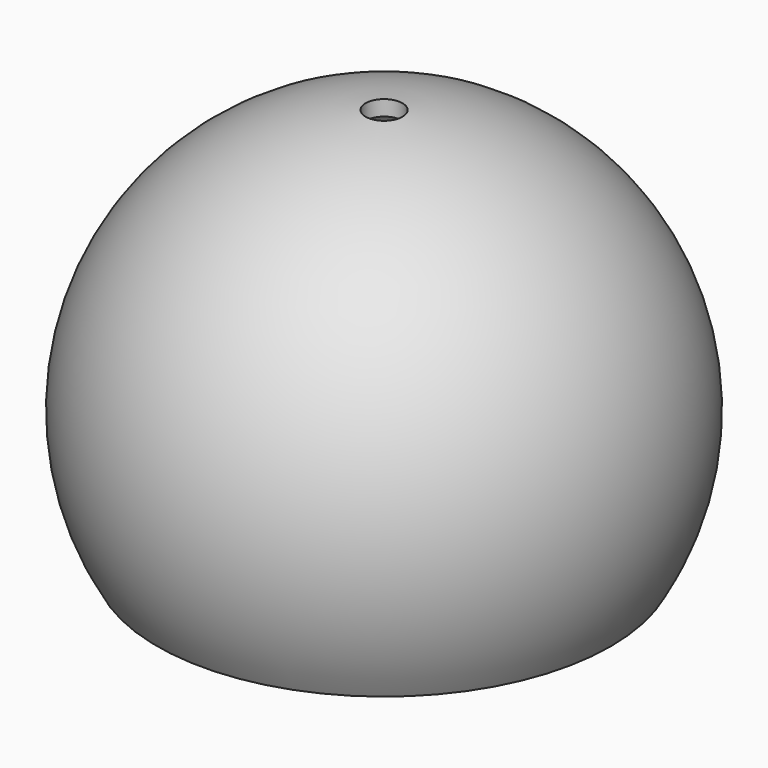
from build123d import *

# Parameters (mm, degrees)
F2_T      = -2.5
F3_R      = 34
F4_DEPTH  = 4.2
F6_R      = 3
F7_DEPTH  = 14
F8_R      = 36
F8_R_2    = 34
F9_DEPTH  = 4
F10_R     = 36
F10_R_2   = 31
F11_DEPTH = 3


with BuildPart() as f1:
    # F0 (on Front) → F1 (revolve)
    with BuildSketch(Plane.XZ):
        with BuildLine():
            Line((0, 0), (0, 65))
            ThreePointArc((0, 65), (-37.383151285, 43.2485293609), (-36.9459064038, 0))
            Line((-36.9459064038, 0), (0, 0))
        make_face()
    revolve(axis=Axis((0, 0, 20.3252808475), (0, 0, 1)))

    # F2 (hollow: no face is removed)
    offset(amount=F2_T, mode=Mode.SUBTRACT)

    # F3 (on face) → F4 (cut)
    with BuildSketch(Plane(origin=(0, 0, 0), x_dir=(1, 0, 0), z_dir=(0, 0, -1))):
        Circle(F3_R)
    extrude(amount=-F4_DEPTH, mode=Mode.SUBTRACT)

    # F6 (on offset) → F7 (cut)
    with BuildSketch(Plane.XY.offset(52)):
        Circle(F6_R)
    extrude(amount=F7_DEPTH, mode=Mode.SUBTRACT)

    # F8 (on face) → F9 (join)
    with BuildSketch(Plane.XY.offset(2.5)):
        Circle(F8_R)
        Circle(F8_R_2, mode=Mode.SUBTRACT)
    extrude(amount=F9_DEPTH)

    # F10 (on face) → F11 (join)
    with BuildSketch(Plane.XY.offset(6.5)):
        Circle(F10_R)
        Circle(F10_R_2, mode=Mode.SUBTRACT)
    extrude(amount=F11_DEPTH)


solid = f1.part
